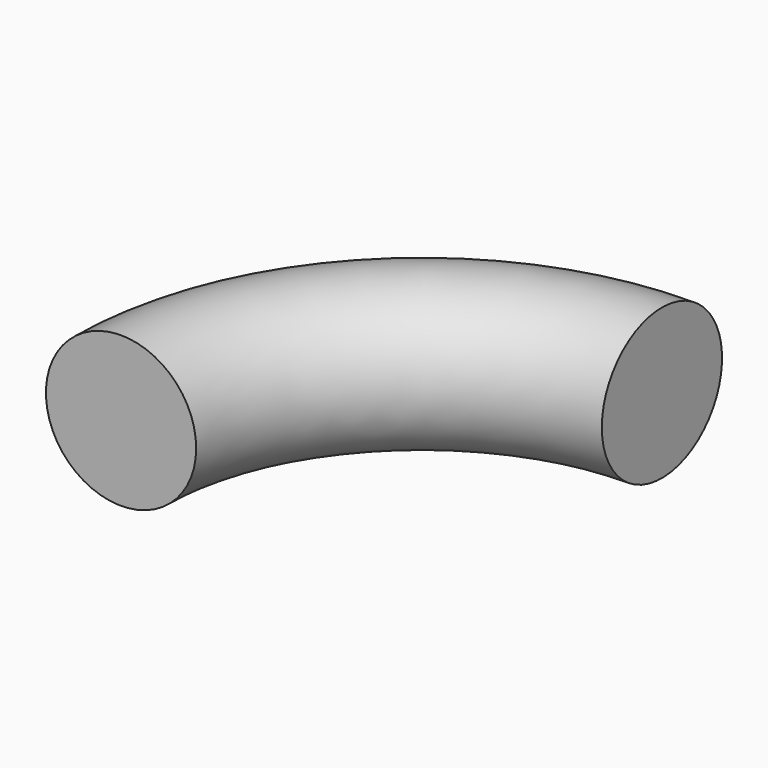
from build123d import *

# Parameters (mm, degrees)
F0_R = 12.7


with BuildPart() as f3:
    # F3: sweep along a path in F2
    with BuildLine(Plane.XY) as f3_path:
        ThreePointArc((50.8, 50.8), (14.878976, 35.921024), (0, 0))
    # F0 (on Front) → F3 (sweep)
    with BuildSketch(Plane.XZ):
        Circle(F0_R)
    sweep(path=f3_path.line)


solid = f3.part
